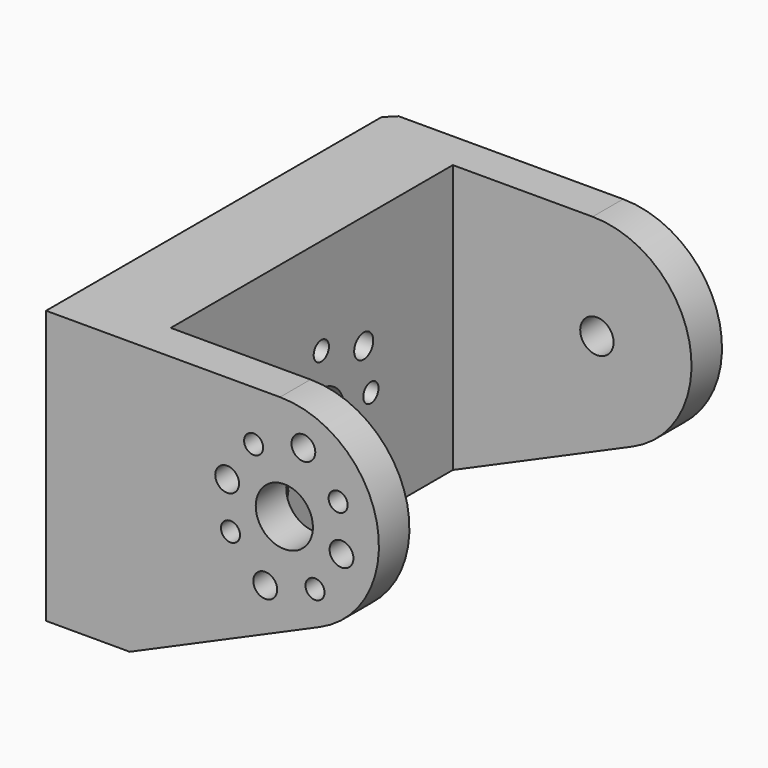
from build123d import *

# Parameters (mm, degrees)
CYLINDER067_R                        = 1.75
CYLINDER067_DEPTH                    = 22
CYLINDER067_PITCH_ANGLE              = 90
CYLINDER061_R                        = 1.25
CYLINDER061_DEPTH                    = 22
CYLINDER061_PITCH_ANGLE              = 90
CYLINDER062_R                        = 1.25
CYLINDER062_DEPTH                    = 22
CYLINDER062_PITCH_ANGLE              = 90
CYLINDER060_R                        = 1.25
CYLINDER060_DEPTH                    = 22
CYLINDER060_PITCH_ANGLE              = 90
CYLINDER059_R                        = 1.25
CYLINDER059_DEPTH                    = 22
CYLINDER059_PITCH_ANGLE              = 90
CYLINDER065_R                        = 1.25
CYLINDER065_DEPTH                    = 22
CYLINDER065_PITCH_ANGLE              = 90
CYLINDER066_R                        = 1.25
CYLINDER066_DEPTH                    = 22
CYLINDER066_PITCH_ANGLE              = 90
CYLINDER064_R                        = 1.25
CYLINDER064_DEPTH                    = 22
CYLINDER064_PITCH_ANGLE              = 90
CYLINDER063_R                        = 1.25
CYLINDER063_DEPTH                    = 22
CYLINDER063_PITCH_ANGLE              = 90
FUSION047_ROLL_ANGLE                 = 34
FUSION047_PLACEMENT_ANGLE            = -90
CYLINDER058_R                        = 3
CYLINDER058_DEPTH                    = 22
CYLINDER058_PITCH_ANGLE              = 90
CYLINDER057_R                        = 3
CYLINDER057_DEPTH                    = 13
CYLINDER057_ROLL_ANGLE               = 90
CYLINDER056_R                        = 10
CYLINDER056_DEPTH                    = 10
CYLINDER056_ROLL_ANGLE               = 90
PAD007_DEPTH                         = 34
PAD005_DEPTH                         = 42
CHAMFER104_SIZE                      = 1
CLONE020_PLACEMENT_ANGLE             = -90
PART_MIRRORING007012_PLACEMENT_ANGLE = 180
BOX071_W                             = 47
BOX071_H                             = 42
BOX071_DEPTH                         = 35
BOX072_W                             = 47
BOX072_H                             = 42
BOX072_DEPTH                         = 35
SKETCH022_R                          = 1
POCKET018_DEPTH                      = 3
SKETCH023_R                          = 1
POCKET019_DEPTH                      = 4


with BuildPart() as cilindro011:
    # Cylinder067 → Cylinder067 (new body)
    with BuildSketch(Plane.XY):
        Circle(CYLINDER067_R)
    extrude(amount=CYLINDER067_DEPTH)


with BuildPart() as cilindro011_1:
    # Cylinder067 pitch: moved
    add(cilindro011.part.rotate(Axis((0, 0, 0), (0, 1, 0)), CYLINDER067_PITCH_ANGLE))


with BuildPart() as cilindro011_2:
    # Cylinder067 placement: moved
    add(cilindro011_1.part.moved(Location((-4.75, -32, 125.75))))


with BuildPart() as cilindro005:
    # Cylinder061 → Cylinder061 (new body)
    with BuildSketch(Plane.XY):
        Circle(CYLINDER061_R)
    extrude(amount=CYLINDER061_DEPTH)


with BuildPart() as cilindro005_1:
    # Cylinder061 pitch: moved
    add(cilindro005.part.rotate(Axis((0, 0, 0), (0, 1, 0)), CYLINDER061_PITCH_ANGLE))


with BuildPart() as cilindro005_2:
    # Cylinder061 placement: moved
    add(cilindro005_1.part.moved(Location((20.25, -38, 124.25))))


with BuildPart() as cilindro006:
    # Cylinder062 → Cylinder062 (new body)
    with BuildSketch(Plane.XY):
        Circle(CYLINDER062_R)
    extrude(amount=CYLINDER062_DEPTH)


with BuildPart() as cilindro006_1:
    # Cylinder062 pitch: moved
    add(cilindro006.part.rotate(Axis((0, 0, 0), (0, 1, 0)), CYLINDER062_PITCH_ANGLE))


with BuildPart() as cilindro006_2:
    # Cylinder062 placement: moved
    add(cilindro006_1.part.moved(Location((20.25, -26, 127.25))))


with BuildPart() as cilindro004:
    # Cylinder060 → Cylinder060 (new body)
    with BuildSketch(Plane.XY):
        Circle(CYLINDER060_R)
    extrude(amount=CYLINDER060_DEPTH)


with BuildPart() as cilindro004_1:
    # Cylinder060 pitch: moved
    add(cilindro004.part.rotate(Axis((0, 0, 0), (0, 1, 0)), CYLINDER060_PITCH_ANGLE))


with BuildPart() as cilindro004_2:
    # Cylinder060 placement: moved
    add(cilindro004_1.part.moved(Location((20.25, -30, 118.75))))


with BuildPart() as fusion046:
    # Cylinder059 → Cylinder059 (new body)
    with BuildSketch(Plane.XY):
        Circle(CYLINDER059_R)
    extrude(amount=CYLINDER059_DEPTH)


with BuildPart() as fusion046_1:
    # Cylinder059 pitch: moved
    add(fusion046.part.rotate(Axis((0, 0, 0), (0, 1, 0)), CYLINDER059_PITCH_ANGLE))


with BuildPart() as fusion046_2:
    # Cylinder059 placement: moved
    add(fusion046_1.part.moved(Location((20.25, -34, 132.75))))

    # Fusion046: union Cilindro005, Cilindro006, Cilindro004
    add(cilindro005_2.part)
    add(cilindro006_2.part)
    add(cilindro004_2.part)


with BuildPart() as cilindro009:
    # Cylinder065 → Cylinder065 (new body)
    with BuildSketch(Plane.XY):
        Circle(CYLINDER065_R)
    extrude(amount=CYLINDER065_DEPTH)


with BuildPart() as cilindro009_1:
    # Cylinder065 pitch: moved
    add(cilindro009.part.rotate(Axis((0, 0, 0), (0, 1, 0)), CYLINDER065_PITCH_ANGLE))


with BuildPart() as cilindro009_2:
    # Cylinder065 placement: moved
    add(cilindro009_1.part.moved(Location((20.25, -38, 124.25))))


with BuildPart() as cilindro010:
    # Cylinder066 → Cylinder066 (new body)
    with BuildSketch(Plane.XY):
        Circle(CYLINDER066_R)
    extrude(amount=CYLINDER066_DEPTH)


with BuildPart() as cilindro010_1:
    # Cylinder066 pitch: moved
    add(cilindro010.part.rotate(Axis((0, 0, 0), (0, 1, 0)), CYLINDER066_PITCH_ANGLE))


with BuildPart() as cilindro010_2:
    # Cylinder066 placement: moved
    add(cilindro010_1.part.moved(Location((20.25, -26, 127.25))))


with BuildPart() as cilindro008:
    # Cylinder064 → Cylinder064 (new body)
    with BuildSketch(Plane.XY):
        Circle(CYLINDER064_R)
    extrude(amount=CYLINDER064_DEPTH)


with BuildPart() as cilindro008_1:
    # Cylinder064 pitch: moved
    add(cilindro008.part.rotate(Axis((0, 0, 0), (0, 1, 0)), CYLINDER064_PITCH_ANGLE))


with BuildPart() as cilindro008_2:
    # Cylinder064 placement: moved
    add(cilindro008_1.part.moved(Location((20.25, -30, 118.75))))


with BuildPart() as fusion047:
    # Cylinder063 → Cylinder063 (new body)
    with BuildSketch(Plane.XY):
        Circle(CYLINDER063_R)
    extrude(amount=CYLINDER063_DEPTH)


with BuildPart() as fusion047_1:
    # Cylinder063 pitch: moved
    add(fusion047.part.rotate(Axis((0, 0, 0), (0, 1, 0)), CYLINDER063_PITCH_ANGLE))


with BuildPart() as fusion047_2:
    # Cylinder063 placement: moved
    add(fusion047_1.part.moved(Location((20.25, -34, 132.75))))

    # Fusion047: union Cilindro009, Cilindro010, Cilindro008
    add(cilindro009_2.part)
    add(cilindro010_2.part)
    add(cilindro008_2.part)


with BuildPart() as fusion047_3:
    # Fusion047 roll: moved
    add(fusion047_2.part.rotate(Axis((0, 0, 0), (1, 0, 0)), FUSION047_ROLL_ANGLE))


with BuildPart() as fusion047_4:
    # Fusion047 placement: moved
    add(fusion047_3.part.moved(Location((114.107998, 21, 33.646227))).rotate(Axis((114.107998, 21, 33.646227), (0, 0, 1)), FUSION047_PLACEMENT_ANGLE))


with BuildPart() as cilindro002:
    # Cylinder058 → Cylinder058 (new body)
    with BuildSketch(Plane.XY):
        Circle(CYLINDER058_R)
    extrude(amount=CYLINDER058_DEPTH)


with BuildPart() as cilindro002_1:
    # Cylinder058 pitch: moved
    add(cilindro002.part.rotate(Axis((0, 0, 0), (0, 1, 0)), CYLINDER058_PITCH_ANGLE))


with BuildPart() as cilindro002_2:
    # Cylinder058 placement: moved
    add(cilindro002_1.part.moved(Location((20.25, -32, 125.75))))


with BuildPart() as cilindro001:
    # Cylinder057 → Cylinder057 (new body)
    with BuildSketch(Plane.XY):
        Circle(CYLINDER057_R)
    extrude(amount=CYLINDER057_DEPTH)


with BuildPart() as cilindro001_1:
    # Cylinder057 roll: moved
    add(cilindro001.part.rotate(Axis((0, 0, 0), (1, 0, 0)), CYLINDER057_ROLL_ANGLE))


with BuildPart() as cilindro001_2:
    # Cylinder057 placement: moved
    add(cilindro001_1.part.moved(Location((17.25, -6, 120))))


with BuildPart() as cilindro:
    # Cylinder056 → Cylinder056 (new body)
    with BuildSketch(Plane.XY):
        Circle(CYLINDER056_R)
    extrude(amount=CYLINDER056_DEPTH)


with BuildPart() as cilindro_1:
    # Cylinder056 roll: moved
    add(cilindro.part.rotate(Axis((0, 0, 0), (1, 0, 0)), CYLINDER056_ROLL_ANGLE))


with BuildPart() as cilindro_2:
    # Cylinder056 placement: moved
    add(cilindro_1.part.moved(Location((17.25, -4, 120))))


with BuildPart() as pad007:
    # Sketch012 → Pad007 (new body)
    with BuildSketch(Plane(origin=(3, -12, -1), x_dir=(0, 1, 0), z_dir=(1, 0, 0))):
        Polygon((-4.882067, 101.940956), (-4.882067, 138.559921), (-40.571098, 142.373672), (-40.571098, 120.688431), align=None)
    extrude(amount=PAD007_DEPTH)


with BuildPart() as right_shoulder:
    # Sketch010 → Pad005 (new body)
    with BuildSketch(Plane.YZ.offset(-1)):
        with BuildLine():
            Line((-35.729516, 116.76657), (-15.773906, 107.988197))
            Line((-15.773906, 107.988197), (-7.000344, 107.988197))
            Line((-7.000344, 107.988197), (-7.000344, 136.642965))
            Line((-7.000344, 136.642965), (-31.550963, 136.642965))
            ThreePointArc((-31.550963, 136.642965), (-41.706398, 128.400491), (-35.729516, 116.76657))
        make_face()
    extrude(amount=PAD005_DEPTH)

    # Cut085: cut Pad007
    add(pad007.part, mode=Mode.SUBTRACT)

    # Cut086: cut Cilindro
    add(cilindro_2.part, mode=Mode.SUBTRACT)

    # Cut087: cut Cilindro001
    add(cilindro001_2.part, mode=Mode.SUBTRACT)

    # Chamfer104
    chamfer104_edges = [right_shoulder.edges().sort_by_distance(p)[0] for p in [
        (-1, -7.000344, 122.315581),
    ]]
    chamfer(chamfer104_edges, length=CHAMFER104_SIZE)

    # Cut088: cut Cilindro002
    add(cilindro002_2.part, mode=Mode.SUBTRACT)

    # Cut089: cut Fusion047
    add(fusion047_4.part, mode=Mode.SUBTRACT)

    # Cut090: cut Fusion046
    add(fusion046_2.part, mode=Mode.SUBTRACT)

    # Cut091: cut Cilindro011
    add(cilindro011_2.part, mode=Mode.SUBTRACT)


with BuildPart() as right_shoulder_1:
    # Clone020 placement: moved
    add(right_shoulder.part.moved(Location((-275, 70, 2.5))).rotate(Axis((-275, 70, 2.5), (0, 0, 1)), CLONE020_PLACEMENT_ANGLE))


with BuildPart() as left_shoulder:
    # Part__Mirroring007012: instance of right-shoulder
    add(right_shoulder_1.part.mirror(Plane(origin=(0, 0, 0), x_dir=(1, 0, 0), z_dir=(0, 1, 0))))


with BuildPart() as left_shoulder_1:
    # Part__Mirroring007012 placement: moved
    add(left_shoulder.part.moved(Location((-478, 0, 0))).rotate(Axis((-478, 0, 0), (0, 0, 1)), PART_MIRRORING007012_PLACEMENT_ANGLE))


with BuildPart() as clone_of_left_shoulder001:
    # Clone029 base: copy of left-shoulder
    add(left_shoulder_1.part)


with BuildPart() as clone_of_left_shoulder001_1:
    # Clone029 placement: moved
    add(clone_of_left_shoulder001.part.moved(Location((0, 3, 0))))


with BuildPart() as common:
    # Box071 → Box071 (new body)
    with BuildSketch(Plane(origin=(-205.102, 65.2498, 108.143), x_dir=(1, 0, 0), z_dir=(0, 0, 1))):
        with Locations((23.5, 21)):
            Rectangle(BOX071_W, BOX071_H)
    extrude(amount=BOX071_DEPTH)

    # Common: intersect Clone of left-shoulder001
    add(clone_of_left_shoulder001_1.part, mode=Mode.INTERSECT)


with BuildPart() as clone_of_left_shoulder:
    # Clone028 base: copy of left-shoulder
    add(left_shoulder_1.part)


with BuildPart() as leftshoulder_large_more_holes:
    # Box072 → Box072 (new body)
    with BuildSketch(Plane(origin=(-205.102, 24.2498, 108.143), x_dir=(1, 0, 0), z_dir=(0, 0, 1))):
        with Locations((23.5, 21)):
            Rectangle(BOX072_W, BOX072_H)
    extrude(amount=BOX072_DEPTH)

    # Common001: intersect Clone of left-shoulder
    add(clone_of_left_shoulder.part, mode=Mode.INTERSECT)

    # Fusion067: union Common
    add(common.part)

    # Sketch022 → Pocket018 (cut)
    with BuildSketch(Plane.YZ.offset(-186.117933)):
        with Locations((52.75, 129)):
            Circle(SKETCH022_R)
        with Locations((59.25, 122.5)):
            Circle(SKETCH022_R)
        with Locations((52.75, 116)):
            Circle(SKETCH022_R)
        with Locations((46.25, 122.5)):
            Circle(SKETCH022_R)
    extrude(amount=-POCKET018_DEPTH, mode=Mode.SUBTRACT)

    # Sketch023 → Pocket019 (cut)
    with BuildSketch(Plane.XZ.offset(-29)):
        with Locations((-174.220298, 133.896209)):
            Circle(SKETCH023_R)
        with Locations((-165.353791, 131.470298)):
            Circle(SKETCH023_R)
        with Locations((-167.779702, 122.603791)):
            Circle(SKETCH023_R)
        with Locations((-176.646209, 125.029702)):
            Circle(SKETCH023_R)
    extrude(amount=-POCKET019_DEPTH, mode=Mode.SUBTRACT)


solid = leftshoulder_large_more_holes.part
